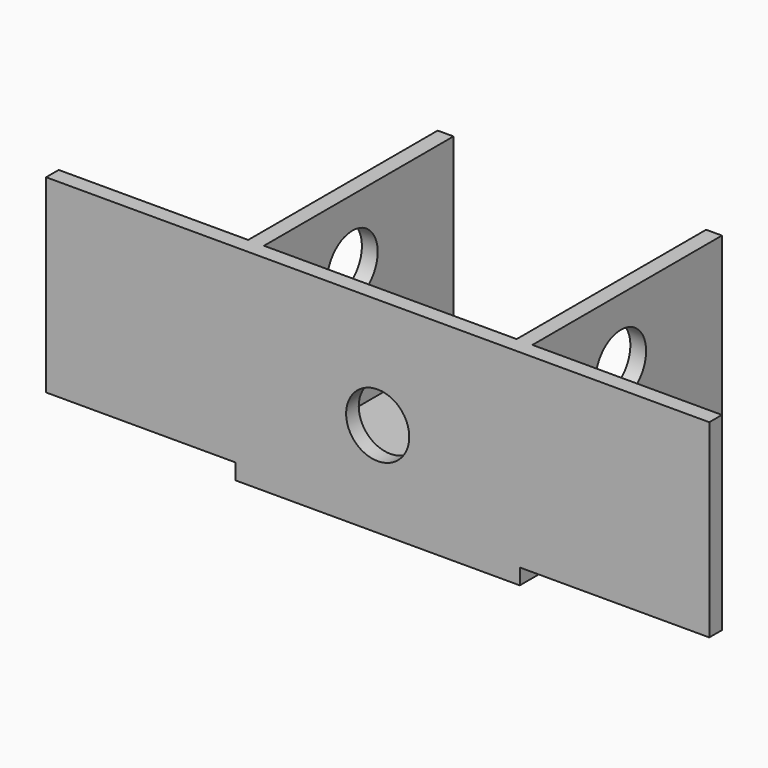
from build123d import *

# Parameters (mm, degrees)
F0_W     = 57.15
F0_H     = 101.6
F1_DEPTH = 6.35
F3_DEPTH = 76.2
F4_R     = 12.7
F5_DEPTH = 6.35
F7_R     = 12.7
F8_DEPTH = 6.35


with BuildPart() as f1:
    # F0 (on Top) → F1 (new body)
    with BuildSketch(Plane.XY):
        with Locations((-28.575, 0)):
            Rectangle(F0_W, F0_H)
    extrude(amount=F1_DEPTH)

    # F2 (on face) → F3 (join)
    with BuildSketch(Plane.XY.offset(6.35)):
        Polygon((-50.8, 50.8), (-57.15, 50.8), (-57.15, -44.45), (-133.35, -44.45), (-133.35, -50.8), (0, -50.8), (0, -44.45), (-50.8, -44.45), align=None)
    extrude(amount=F3_DEPTH)

    # F4 (on face) → F5 (cut, through all)
    with BuildSketch(Plane(origin=(-57.15, 0, 0), x_dir=(0, -1, 0), z_dir=(-1, 0, 0))):
        with Locations((0, 57.15)):
            Circle(F4_R)
    extrude(amount=-F5_DEPTH, mode=Mode.SUBTRACT)

    # F6: F1 across plane


with BuildPart() as f1_1:
    add(f1.part)
    add(f1.part.mirror(Plane.YZ))

    # F7 (on face) → F8 (cut, through all)
    with BuildSketch(Plane(origin=(0, -44.45, 0), x_dir=(-1, 0, 0), z_dir=(0, 1, 0))):
        with Locations((0, 38.1)):
            Circle(F7_R)
    extrude(amount=-F8_DEPTH, mode=Mode.SUBTRACT)


solid = f1_1.part
